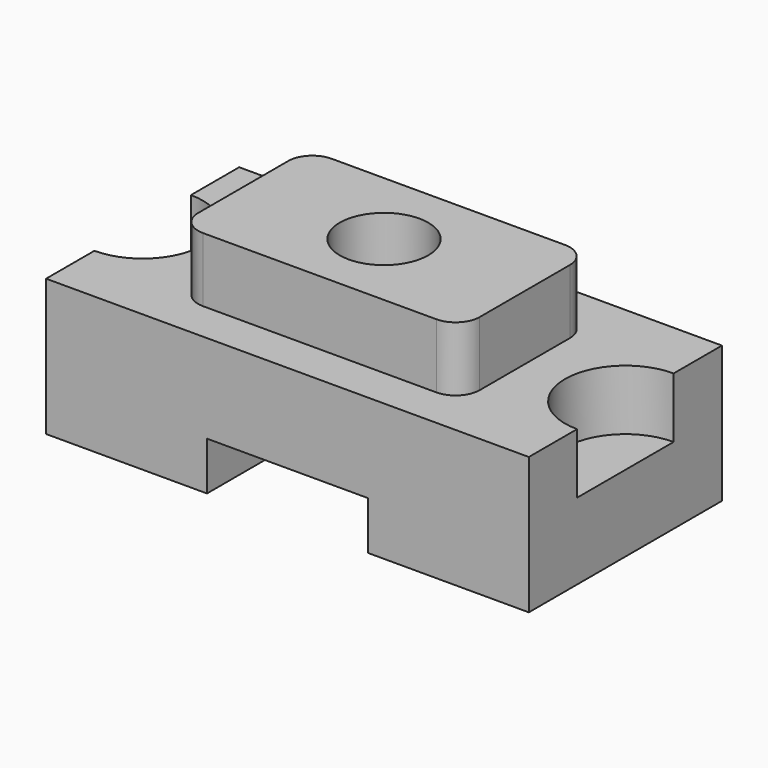
from build123d import *

# Parameters (mm, degrees)
F0_W      = 120
F0_H      = 60
F1_DEPTH  = 34
F2_W      = 70
F2_H      = 40
F3_DEPTH  = 16
F4_R      = 6
F5_R      = 11
F6_DEPTH  = 50.001
F7_R      = 15
F8_DEPTH  = 15
F9_W      = 40
F9_H      = 12
F10_DEPTH = 60.001


with BuildPart() as f1:
    # F0 (on Top) → F1 (new body)
    with BuildSketch(Plane.XY):
        Rectangle(F0_W, F0_H)
    extrude(amount=F1_DEPTH)

    # F2 (on face) → F3 (join)
    with BuildSketch(Plane.XY.offset(34)):
        Rectangle(F2_W, F2_H)
    extrude(amount=F3_DEPTH)

    # F4
    f4_edges = [f1.edges().sort_by_distance(p)[0] for p in [
        (-35, -20, 42),
        (-35, 20, 42),
        (35, -20, 42),
        (35, 20, 42),
    ]]
    fillet(f4_edges, radius=F4_R)

    # F5 (on face) → F6 (cut, through all)
    with BuildSketch(Plane.XY.offset(50)):
        Circle(F5_R)
    extrude(amount=-F6_DEPTH, mode=Mode.SUBTRACT)

    # F7 (on face) → F8 (cut)
    with BuildSketch(Plane.XY.offset(34)):
        with Locations((60, 0)):
            Circle(F7_R)
        with Locations((-60, 0)):
            Circle(F7_R)
    extrude(amount=-F8_DEPTH, mode=Mode.SUBTRACT)

    # F9 (on face) → F10 (cut, through all)
    with BuildSketch(Plane(origin=(0, 30, 0), x_dir=(-1, 0, 0), z_dir=(0, 1, 0))):
        with Locations((0, 6)):
            Rectangle(F9_W, F9_H)
    extrude(amount=-F10_DEPTH, mode=Mode.SUBTRACT)


solid = f1.part
